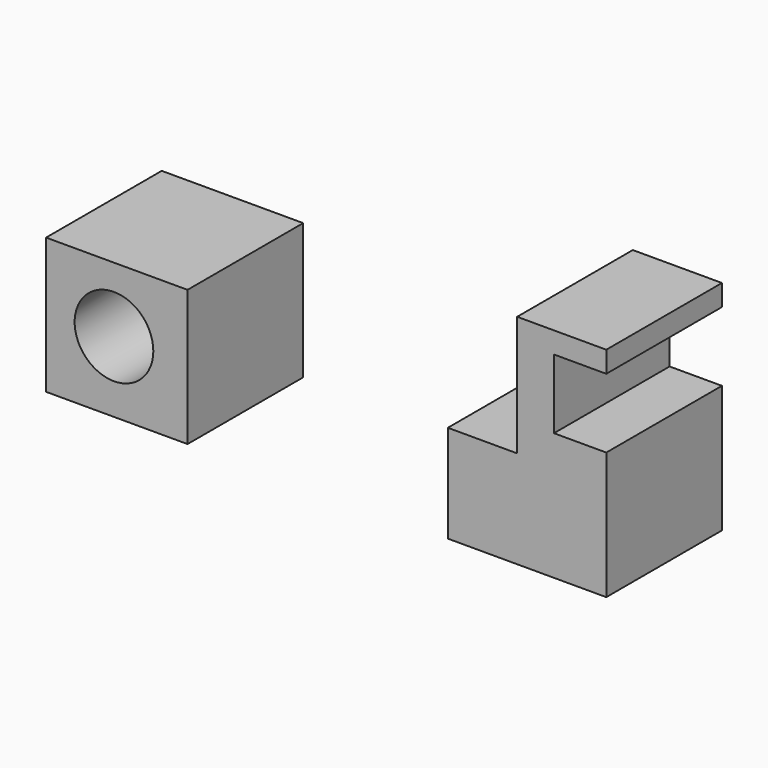
from build123d import *

# Parameters (mm, degrees)
F0_W     = 29.361468
F0_H     = 28.18701
F0_R     = 8.163334
F1_DEPTH = 30


with BuildPart() as f1:
    # F0 (on Front) → F1 (new body)
    with BuildSketch(Plane.XZ):
        with Locations((-42.427322, 19.672184)):
            Rectangle(F0_W, F0_H)
        with Locations((-43.014552, 20.259414)):
            Circle(F0_R, mode=Mode.SUBTRACT)
        Polygon((40.665634, 26.131706), (26.278513, 26.131706), (26.278513, 5.872293), (59.163362, 5.872293), (59.163362, 26.131706), (59.163362, 32.297615), (48.299614, 32.297615), (48.299614, 46.684735), (59.163362, 46.684735), (59.163362, 51.088955), (48.299614, 51.088955), (40.665634, 51.088955), (40.665634, 32.297615), align=None)
    extrude(amount=F1_DEPTH)


solid = f1.part
